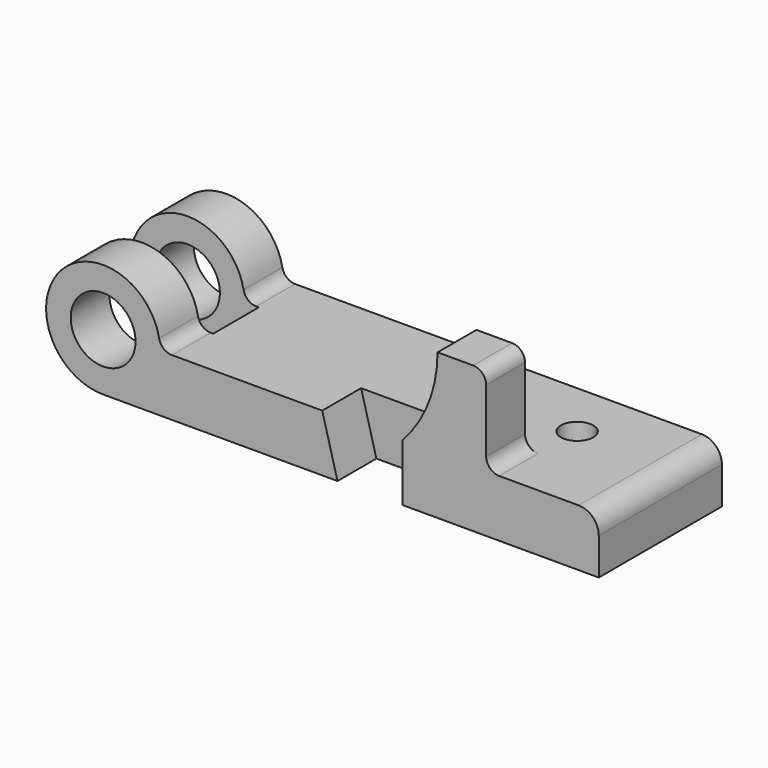
from build123d import *

# Parameters (mm, degrees)
F0_R      = 12.7
F1_DEPTH  = 30.1625
F3_W      = 5.6116215229
F3_H      = 22.3266
F3_W_2    = 50.3156215229
F4_DEPTH  = 25.4
F6_DEPTH  = 25.4
F7_R      = 6.35
F8_DEPTH  = 25.4
F9_R      = 7.874
F10_R     = 5.08
F12_DEPTH = 19.05
F13_W     = 19.05
F13_H     = 34.798
F14_DEPTH = 19.05
F15_R     = 5.08
F17_DEPTH = 19.05


with BuildPart() as f1:
    # F0 (on Front) → F1 (new body)
    with BuildSketch(Plane.XZ):
        with BuildLine():
            ThreePointArc((0, -22.352), (15.8052507731, -15.8052507731), (22.352, 0))
            ThreePointArc((22.352, 0), (-15.8052507731, 15.8052507731), (0, -22.352))
        make_face()
        Circle(F0_R, mode=Mode.SUBTRACT)
        with BuildLine():
            Line((194.2084, 0), (22.352, 0))
            ThreePointArc((22.352, 0), (15.8052507731, -15.8052507731), (0, -22.352))
            Line((0, -22.352), (194.2084, -22.352))
            Line((194.2084, -22.352), (194.2084, 0))
        make_face()
    extrude(amount=F1_DEPTH)

    # F2: F1 across plane


with BuildPart() as f1_1:
    add(f1.part)
    add(f1.part.mirror(Plane.XZ))

    # F3 (on face) → F4 (cut)
    with BuildSketch(Plane.XY):
        with Locations((25.1578107615, 0)):
            Rectangle(F3_W, F3_H)
        with Locations((-2.8058107615, 0)):
            Rectangle(F3_W_2, F3_H)
    extrude(amount=-F4_DEPTH, mode=Mode.SUBTRACT)

    # F5 (on face) → F6 (cut)
    with BuildSketch(Plane.XY):
        Polygon((-49.2868088186, -11.1633), (27.9636215229, -11.1633), (27.9636215229, 11.1633), (-41.6799448431, 11.1633), align=None)
    extrude(amount=F6_DEPTH, mode=Mode.SUBTRACT)

    # F7 (on face) → F8 (cut)
    with BuildSketch(Plane.XY):
        with Locations((155.3464, 7.8105)):
            Circle(F7_R)
    extrude(amount=-F8_DEPTH, mode=Mode.SUBTRACT)

    # F9
    f9_edges = [f1_1.edges().sort_by_distance(p)[0] for p in [
        (194.2084, 0, 0),
    ]]
    fillet(f9_edges, radius=F9_R)

    # F10
    f10_edges = [f1_1.edges().sort_by_distance(p)[0] for p in [
        (22.352, -20.6629, 0),
        (22.352, 20.6629, 0),
    ]]
    fillet(f10_edges, radius=F10_R)

    # F11 (on face) → F12 (cut)
    with BuildSketch(Plane.XZ.offset(30.1625)):
        Polygon((117.2464, 0), (85.852, 0), (91.8464, -22.352), (117.2464, -22.352), align=None)
    extrude(amount=-F12_DEPTH, mode=Mode.SUBTRACT)

    # F13 (on face) → F14 (join)
    with BuildSketch(Plane.XZ.offset(30.1625)):
        with Locations((140.5636, 17.399)):
            Rectangle(F13_W, F13_H)
    extrude(amount=-F14_DEPTH)

    # F15
    f15_edges = [f1_1.edges().sort_by_distance(p)[0] for p in [
        (150.0886, -20.6375, 0),
        (150.0886, -20.6375, 34.798),
    ]]
    fillet(f15_edges, radius=F15_R)

    # F16 (on face) → F17 (join)
    with BuildSketch(Plane.XZ.offset(30.1625)):
        with BuildLine():
            ThreePointArc((131.0386, 34.798), (127.4644153616, 16.0823576341), (117.2464, 0))
            Line((117.2464, 0), (131.0386, 0))
            Line((131.0386, 0), (131.0386, 34.798))
        make_face()
    extrude(amount=-F17_DEPTH)


solid = f1_1.part
